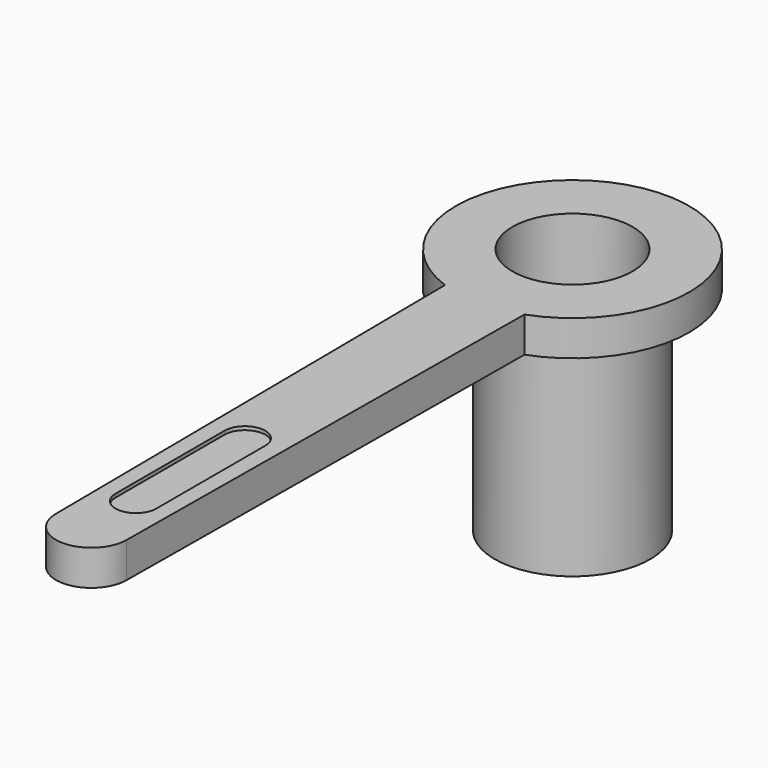
from build123d import *

# Parameters (mm, degrees)
PAD_DEPTH    = 1
POCKET_DEPTH = 0.1


with BuildPart() as part:
    # Sketch → Revolution (revolve)
    with BuildSketch(Plane.YZ):
        Polygon((-3.3, 0), (-1.7, 0), (-1.7, -7), (-2.2, -7), (-2.2, -1), (-3.3, -1), align=None)
    revolve(axis=Axis((0, 0, 0), (0, 0, 1)))

    # Sketch001 (on Face1 of Revolution) → Pad (new body)
    with BuildSketch(Plane(origin=(0, 0, 0), x_dir=(0, -1, 0), z_dir=(0, 0, 1))):
        with BuildLine():
            Line((3.102318, 1.125), (3.102318, -1.125))
            Line((3.102318, -1.125), (17.009034, -1))
            ThreePointArc((17.009034, -1), (18.000081, 0), (17.009034, 1))
            Line((3.102318, 1.125), (17.009034, 1))
        make_face()
    extrude(amount=-PAD_DEPTH)

    # Sketch002 (on Face2 of Pad) → Pocket (cut)
    with BuildSketch(Plane(origin=(0, 0, 0), x_dir=(0, -1, 0), z_dir=(0, 0, 1))):
        with BuildLine():
            ThreePointArc((11.575081, 0.575), (11.000081, 0), (11.575081, -0.575))
            Line((11.575081, -0.575), (15.425081, -0.575))
            ThreePointArc((15.425081, -0.575), (16.000081, 0), (15.425081, 0.575))
            Line((11.575081, 0.575), (15.425081, 0.575))
        make_face()
    extrude(amount=-POCKET_DEPTH, mode=Mode.SUBTRACT)


solid = part.part
